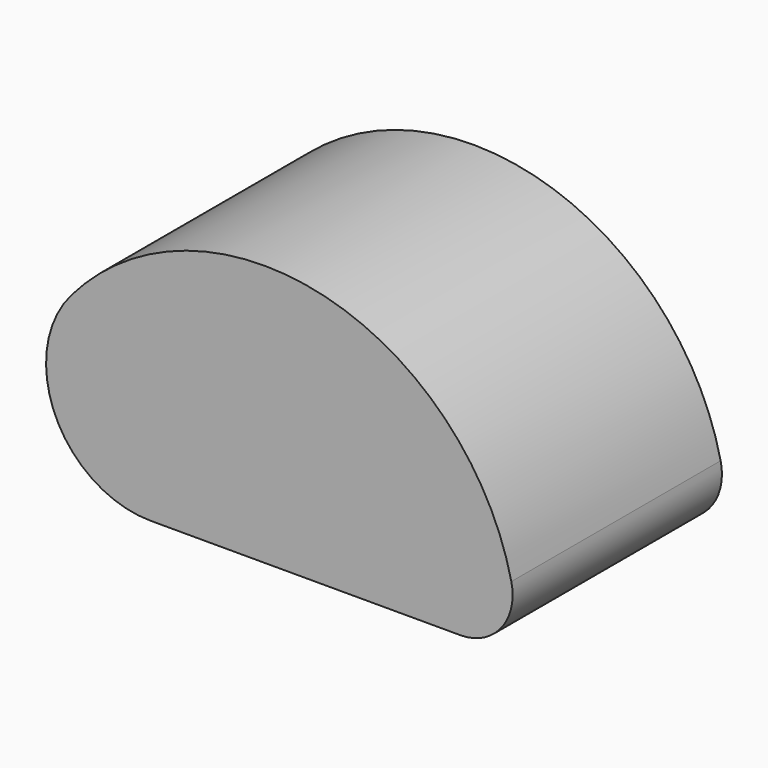
from build123d import *

# Parameters (mm, degrees)
F1_DEPTH = 25


with BuildPart() as f1:
    # F0 (on Front) → F1 (new body, symmetric)
    with BuildSketch(Plane.XZ):
        with BuildLine():
            Line((-59.160798, 0), (0, 0))
            ThreePointArc((0, 0), (7.809212, 3.753704), (9.75573, 12.196757))
            ThreePointArc((9.75573, 12.196757), (-25.895162, 48.587943), (-74.385922, 32.969024))
            ThreePointArc((-74.385922, 32.969024), (-77.318172, 11.614909), (-59.160798, 0))
        make_face()
    extrude(amount=F1_DEPTH, both=True)


solid = f1.part
